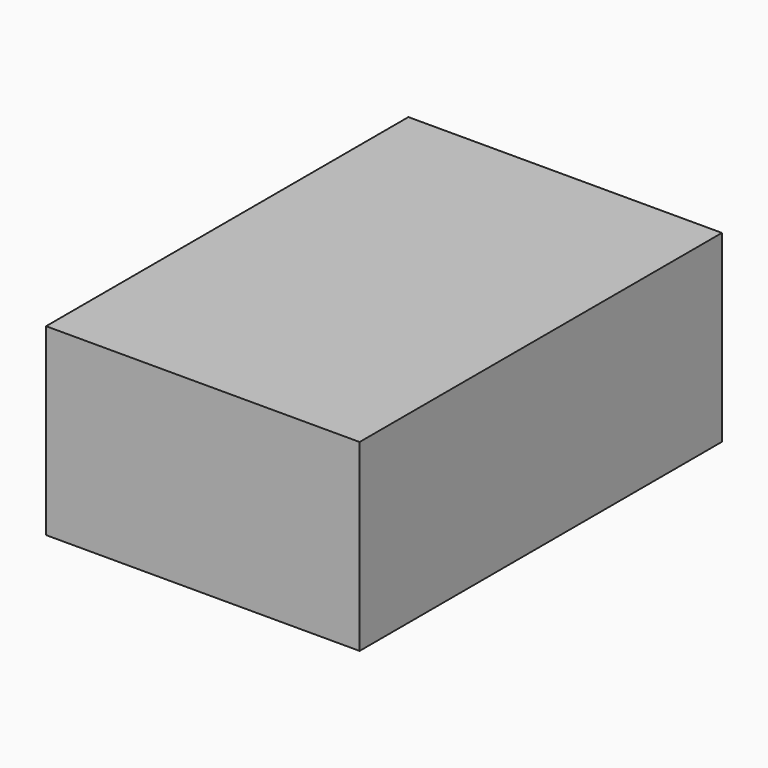
from build123d import *

# Parameters (mm, degrees)
SKETCH_W                        = 106
SKETCH_H                        = 156
PAD_DEPTH                       = 63
SKETCH001_W                     = 100
SKETCH001_H                     = 150
POCKET_DEPTH                    = 60
SKETCH004_W                     = 5
SKETCH004_H                     = 5
POCKET002_DEPTH                 = 400.699378
SKETCH004_LINEARPATTERN_2_W     = 5
SKETCH004_LINEARPATTERN_2_H     = 5
POCKET002_LINEARPATTERN_2_DEPTH = 400.699378
SKETCH004_LINEARPATTERN_3_W     = 5
SKETCH004_LINEARPATTERN_3_H     = 5
POCKET002_LINEARPATTERN_3_DEPTH = 400.699378
LINEARPATTERN001_COUNT          = 4
LINEARPATTERN001_PITCH          = 33.333333
SKETCH002_W                     = 112.5
SKETCH002_H                     = 162.5
PAD001_DEPTH                    = 66
SKETCH003_W                     = 106.5
SKETCH003_H                     = 156.5
POCKET001_DEPTH                 = 63


with BuildPart() as bottom_body:
    # Sketch → Pad (new body)
    with BuildSketch(Plane.XY):
        Rectangle(SKETCH_W, SKETCH_H)
    extrude(amount=PAD_DEPTH)

    # Sketch001 (on DatumPlane) → Pocket (cut)
    with BuildSketch(Plane.XY.offset(63)):
        Rectangle(SKETCH001_W, SKETCH001_H)
    extrude(amount=-POCKET_DEPTH, mode=Mode.SUBTRACT)

    # Sketch004 (on Face11 of Pocket) → Pocket002 (cut, through all)
    with BuildSketch(Plane.XY.offset(3)):
        with Locations((-25, 50)):
            Rectangle(SKETCH004_W, SKETCH004_H)
    pocket002 = extrude(amount=-POCKET002_DEPTH, mode=Mode.SUBTRACT)

    # Sketch004 LinearPattern 2 → Pocket002 LinearPattern 2 (cut, through all)
    with BuildSketch(Plane(origin=(25, 0, 3), x_dir=(1, 0, 0), z_dir=(0, 0, 1))):
        with Locations((-25, 50)):
            Rectangle(SKETCH004_LINEARPATTERN_2_W, SKETCH004_LINEARPATTERN_2_H)
    pocket002_linearpattern_2 = extrude(amount=-POCKET002_LINEARPATTERN_2_DEPTH, mode=Mode.SUBTRACT)

    # Sketch004 LinearPattern 3 → Pocket002 LinearPattern 3 (cut, through all)
    with BuildSketch(Plane(origin=(50, 0, 3), x_dir=(1, 0, 0), z_dir=(0, 0, 1))):
        with Locations((-25, 50)):
            Rectangle(SKETCH004_LINEARPATTERN_3_W, SKETCH004_LINEARPATTERN_3_H)
    pocket002_linearpattern_3 = extrude(amount=-POCKET002_LINEARPATTERN_3_DEPTH, mode=Mode.SUBTRACT)

    # LinearPattern001: Pocket002, Pocket002 LinearPattern 2, Pocket002 LinearPattern 3 ×4
    with Locations(*[(0, -i * LINEARPATTERN001_PITCH, 0) for i in range(1, LINEARPATTERN001_COUNT)]):
        add(pocket002, mode=Mode.SUBTRACT)
        add(pocket002_linearpattern_2, mode=Mode.SUBTRACT)
        add(pocket002_linearpattern_3, mode=Mode.SUBTRACT)


with BuildPart() as cover_body:
    # Sketch002 → Pad001 (new body)
    with BuildSketch(Plane.XY):
        Rectangle(SKETCH002_W, SKETCH002_H)
    extrude(amount=PAD001_DEPTH)

    # Sketch003 → Pocket001 (cut)
    with BuildSketch(Plane.XY):
        Rectangle(SKETCH003_W, SKETCH003_H)
    extrude(amount=POCKET001_DEPTH, mode=Mode.SUBTRACT)


solid = Compound([bottom_body.part, cover_body.part])
